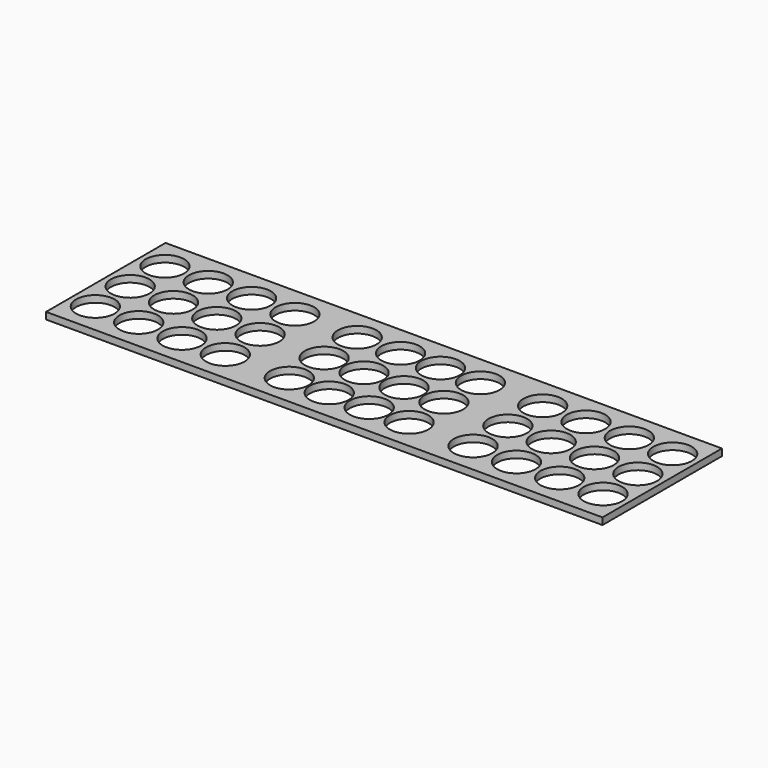
from build123d import *

# Parameters (mm, degrees)
F0_W     = 260.35
F0_H     = 68.2625
F1_DEPTH = 3.175
F2_W     = 6.35
F2_H     = 2.38125
F2_R     = 9.017
F3_DEPTH = 3.175
F4_W     = 3.175
F4_H     = 3.175
F5_DEPTH = 260.35


with BuildPart() as f1:
    # F0 (on Top) → F1 (new body)
    with BuildSketch(Plane.XY):
        with Locations((130.175, 34.13125)):
            Rectangle(F0_W, F0_H)
    extrude(amount=F1_DEPTH)

    # F2 (on face) → F3 (cut, through all)
    with BuildSketch(Plane.XY.offset(3.175)):
        with Locations((3.175, 1.190625)):
            Rectangle(F2_W, F2_H)
        with Locations((3.175, 67.071875)):
            Rectangle(F2_W, F2_H)
        with Locations((11.39825, 54.483)):
            Circle(F2_R)
        with Locations((31.668861, 54.483)):
            Circle(F2_R)
        with Locations((51.939472, 54.483)):
            Circle(F2_R)
        with Locations((72.210083, 54.483)):
            Circle(F2_R)
        with Locations((101.356583, 54.483)):
            Circle(F2_R)
        with Locations((121.627194, 54.483)):
            Circle(F2_R)
        with Locations((140.310306, 54.483)):
            Circle(F2_R)
        with Locations((158.993417, 54.483)):
            Circle(F2_R)
        with Locations((188.139917, 54.483)):
            Circle(F2_R)
        with Locations((208.410528, 54.483)):
            Circle(F2_R)
        with Locations((228.681139, 54.483)):
            Circle(F2_R)
        with Locations((248.95175, 54.483)):
            Circle(F2_R)
        with Locations((11.39825, 34.13125)):
            Circle(F2_R)
        with Locations((31.668861, 34.13125)):
            Circle(F2_R)
        with Locations((51.939472, 34.13125)):
            Circle(F2_R)
        with Locations((72.210083, 34.13125)):
            Circle(F2_R)
        with Locations((248.95175, 34.13125)):
            Circle(F2_R)
        with Locations((228.681139, 34.13125)):
            Circle(F2_R)
        with Locations((208.410528, 34.13125)):
            Circle(F2_R)
        with Locations((188.139917, 34.13125)):
            Circle(F2_R)
        with Locations((102.150333, 34.13125)):
            Circle(F2_R)
        with Locations((120.833444, 34.13125)):
            Circle(F2_R)
        with Locations((139.516556, 34.13125)):
            Circle(F2_R)
        with Locations((158.199667, 34.13125)):
            Circle(F2_R)
        with Locations((11.39825, 13.7795)):
            Circle(F2_R)
        with Locations((248.95175, 13.7795)):
            Circle(F2_R)
        with Locations((228.681139, 13.7795)):
            Circle(F2_R)
        with Locations((208.410528, 13.7795)):
            Circle(F2_R)
        with Locations((188.139917, 13.7795)):
            Circle(F2_R)
        with Locations((31.668861, 13.7795)):
            Circle(F2_R)
        with Locations((51.939472, 13.7795)):
            Circle(F2_R)
        with Locations((72.210083, 13.7795)):
            Circle(F2_R)
        with Locations((102.150333, 13.7795)):
            Circle(F2_R)
        with Locations((120.833444, 13.7795)):
            Circle(F2_R)
        with Locations((139.516556, 13.7795)):
            Circle(F2_R)
        with Locations((158.199667, 13.7795)):
            Circle(F2_R)
        with Locations((15.875, 67.071875)):
            Rectangle(F2_W, F2_H)
        with Locations((15.875, 1.190625)):
            Rectangle(F2_W, F2_H)
        with Locations((28.575, 1.190625)):
            Rectangle(F2_W, F2_H)
        with Locations((41.275, 1.190625)):
            Rectangle(F2_W, F2_H)
        with Locations((53.975, 1.190625)):
            Rectangle(F2_W, F2_H)
        with Locations((66.675, 1.190625)):
            Rectangle(F2_W, F2_H)
        with Locations((79.375, 1.190625)):
            Rectangle(F2_W, F2_H)
        with Locations((92.075, 1.190625)):
            Rectangle(F2_W, F2_H)
        with Locations((104.775, 1.190625)):
            Rectangle(F2_W, F2_H)
        with Locations((117.475, 1.190625)):
            Rectangle(F2_W, F2_H)
        with Locations((130.175, 1.190625)):
            Rectangle(F2_W, F2_H)
        with Locations((142.875, 1.190625)):
            Rectangle(F2_W, F2_H)
        with Locations((155.575, 1.190625)):
            Rectangle(F2_W, F2_H)
        with Locations((168.275, 1.190625)):
            Rectangle(F2_W, F2_H)
        with Locations((180.975, 1.190625)):
            Rectangle(F2_W, F2_H)
        with Locations((193.675, 1.190625)):
            Rectangle(F2_W, F2_H)
        with Locations((206.375, 1.190625)):
            Rectangle(F2_W, F2_H)
        with Locations((219.075, 1.190625)):
            Rectangle(F2_W, F2_H)
        with Locations((231.775, 1.190625)):
            Rectangle(F2_W, F2_H)
        with Locations((244.475, 1.190625)):
            Rectangle(F2_W, F2_H)
        with Locations((257.175, 1.190625)):
            Rectangle(F2_W, F2_H)
        with Locations((269.875, 1.190625)):
            Rectangle(F2_W, F2_H)
        with Locations((282.575, 1.190625)):
            Rectangle(F2_W, F2_H)
        with Locations((28.575, 67.071875)):
            Rectangle(F2_W, F2_H)
        with Locations((41.275, 67.071875)):
            Rectangle(F2_W, F2_H)
        with Locations((53.975, 67.071875)):
            Rectangle(F2_W, F2_H)
        with Locations((66.675, 67.071875)):
            Rectangle(F2_W, F2_H)
        with Locations((79.375, 67.071875)):
            Rectangle(F2_W, F2_H)
        with Locations((92.075, 67.071875)):
            Rectangle(F2_W, F2_H)
        with Locations((104.775, 67.071875)):
            Rectangle(F2_W, F2_H)
        with Locations((117.475, 67.071875)):
            Rectangle(F2_W, F2_H)
        with Locations((130.175, 67.071875)):
            Rectangle(F2_W, F2_H)
        with Locations((142.875, 67.071875)):
            Rectangle(F2_W, F2_H)
        with Locations((155.575, 67.071875)):
            Rectangle(F2_W, F2_H)
        with Locations((168.275, 67.071875)):
            Rectangle(F2_W, F2_H)
        with Locations((180.975, 67.071875)):
            Rectangle(F2_W, F2_H)
        with Locations((193.675, 67.071875)):
            Rectangle(F2_W, F2_H)
        with Locations((206.375, 67.071875)):
            Rectangle(F2_W, F2_H)
        with Locations((219.075, 67.071875)):
            Rectangle(F2_W, F2_H)
        with Locations((231.775, 67.071875)):
            Rectangle(F2_W, F2_H)
        with Locations((244.475, 67.071875)):
            Rectangle(F2_W, F2_H)
        with Locations((257.175, 67.071875)):
            Rectangle(F2_W, F2_H)
        with Locations((269.875, 67.071875)):
            Rectangle(F2_W, F2_H)
        with Locations((282.575, 67.071875)):
            Rectangle(F2_W, F2_H)
    extrude(amount=-F3_DEPTH, mode=Mode.SUBTRACT)

    # F4 (on face) → F5 (join, through all)
    with BuildSketch(Plane(origin=(0, 0, 0), x_dir=(0, -1, 0), z_dir=(-1, 0, 0))):
        with Locations((-0.79375, 1.5875)):
            Rectangle(F4_W, F4_H)
        with Locations((-67.46875, 1.5875)):
            Rectangle(F4_W, F4_H)
    extrude(amount=-F5_DEPTH)


solid = f1.part
